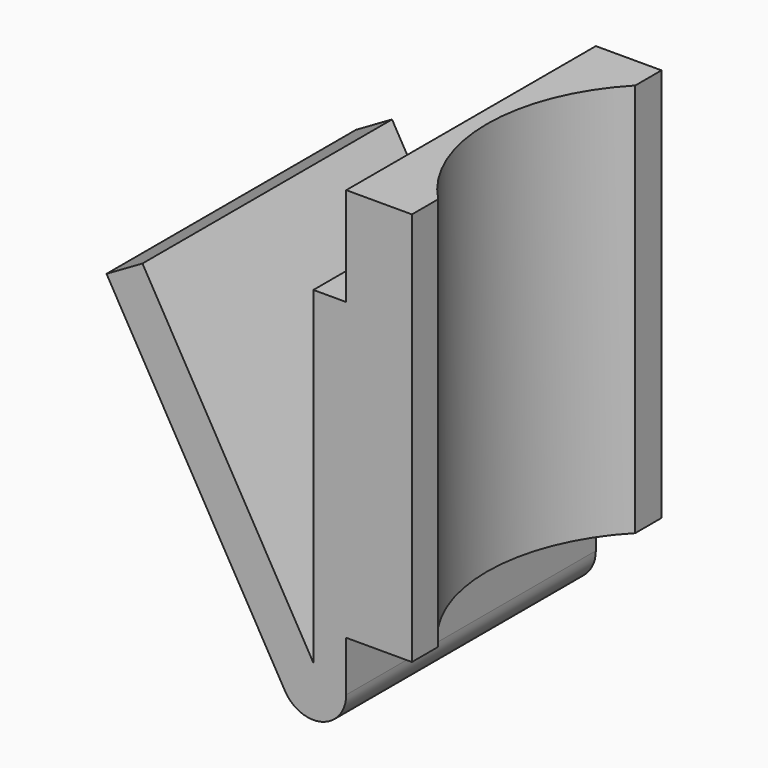
from build123d import *

# Parameters (mm, degrees)
F0_W     = 19
F0_H     = 24
F1_DEPTH = 4
F3_DEPTH = 19
F4_W     = 2
F4_H     = 10.4102807478
F7_DEPTH = 24.001


with BuildPart() as f1:
    # F0 (on Right) → F1 (new body)
    with BuildSketch(Plane.YZ):
        Rectangle(F0_W, F0_H)
    extrude(amount=F1_DEPTH)

    # F2 (on face) → F3 (join, through all)
    with BuildSketch(Plane(origin=(0, 9.5, 0), x_dir=(-1, 0, 0), z_dir=(0, 1, 0))):
        with BuildLine():
            Line((2, 6), (0, 6))
            Line((0, 6), (0, -15.05894568))
            ThreePointArc((0, -15.05894568), (1.4823619098, -16.9907973326), (3.7320508076, -16.05894568))
            Line((3.7320508076, -16.05894568), (14.6008684854, 2.7663987562))
            Line((14.6008684854, 2.7663987562), (12.4102807478, 4.0311351762))
            Line((12.4102807478, 4.0311351762), (2, -14))
            Line((2, -14), (2, 6))
        make_face()
    extrude(amount=-F3_DEPTH)

    # F4 (on face) → F5 (join, up to the next surface of F1)
    with BuildSketch(Plane(origin=(-7.5621778265, 0, -4.3660254038), x_dir=(0, 1, 0), z_dir=(0.8660254038, 0, 0.5))):
        with Locations((0, -5.9192152791)):
            Rectangle(F4_W, F4_H)
    extrude(until=Until.NEXT)

    # F6 (on face) → F7 (cut, through all)
    with BuildSketch(Plane(origin=(0, 0, -12), x_dir=(1, 0, 0), z_dir=(0, 0, -1))):
        with BuildLine():
            Line((4, -7.5), (4, 7.5))
            ThreePointArc((4, 7.5), (0.9658907755, 0), (4, -7.5))
        make_face()
    extrude(amount=-F7_DEPTH, mode=Mode.SUBTRACT)


solid = f1.part
